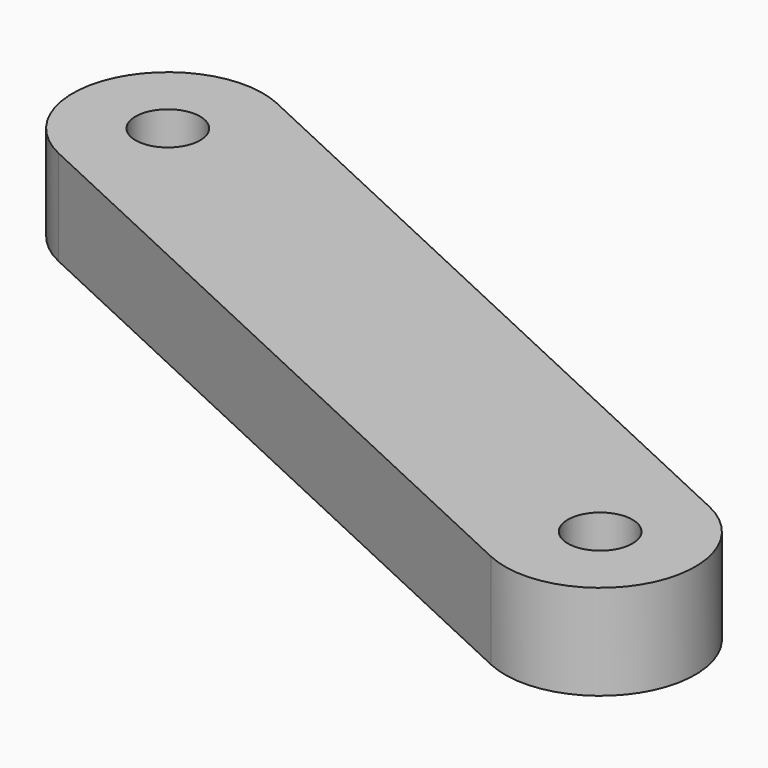
from build123d import *

# Parameters (mm, degrees)
F0_R     = 1.7
F1_DEPTH = 5
F2_ANGLE = -115


with BuildPart() as f1:
    # F0 (on Top) → F1 (new body)
    with BuildSketch(Plane.XY):
        with BuildLine():
            ThreePointArc((-42.763465, 28.837396), (-47.763465, 33.837396), (-52.763465, 28.837396))
            Line((-52.763465, 28.837396), (-52.763465, -5.661145))
            Line((-52.763465, -5.661145), (-42.763465, -5.661145))
            Line((-42.763465, -5.661145), (-42.763465, 28.837396))
        make_face()
        with Locations((-47.763465, 28.837396)):
            Circle(F0_R, mode=Mode.SUBTRACT)
        with BuildLine():
            Line((-42.763465, -5.661145), (-52.763465, -5.661145))
            Line((-52.763465, -5.661145), (-52.763465, -11.162604))
            ThreePointArc((-52.763465, -11.162604), (-47.763465, -16.162604), (-42.763465, -11.162604))
            Line((-42.763465, -11.162604), (-42.763465, -5.661145))
        make_face()
        with Locations((-47.763465, -11.162604)):
            Circle(F0_R, mode=Mode.SUBTRACT)
    extrude(amount=F1_DEPTH)


with BuildPart() as f1_1:
    # F2: moved
    add(f1.part.rotate(Axis((-47.763465, -11.162604, 5), (0, 0, 1)), F2_ANGLE))


solid = f1_1.part
